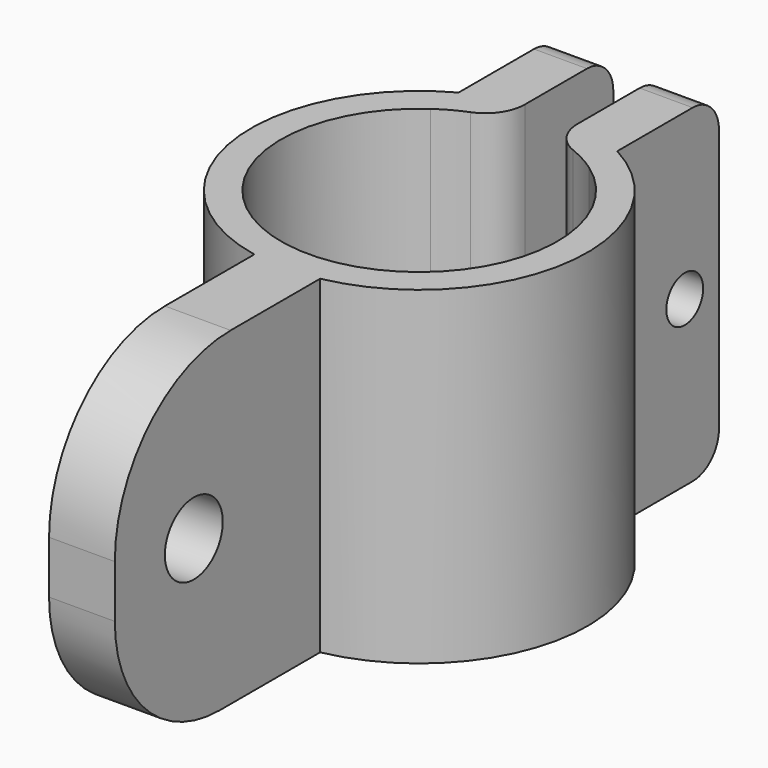
from build123d import *

# Parameters (mm, degrees)
F1_DEPTH = 25
F2_R     = 2.75
F2_R_2   = 1.75
F3_DEPTH = 50
F4_R     = 11
F5_R     = 10
F6_R     = 2.5
F7_R     = 3


with BuildPart() as f1:
    # F0 (on Top) → F1 (new body)
    with BuildSketch(Plane.XY):
        with BuildLine():
            ThreePointArc((2.5, -12.539936204), (0, -12.7867118525), (-2.5, -12.539936204))
            Line((-2.5, -12.539936204), (-2.5, -32.0420756284))
            Line((-2.5, -32.0420756284), (0, -32.0420756284))
            Line((0, -32.0420756284), (2.5, -32.0420756284))
            Line((2.5, -32.0420756284), (2.5, -12.539936204))
        make_face()
        with BuildLine():
            ThreePointArc((-6.0296314677, 11.2757946223), (-4.0714568053, 12.1211896892), (-2, 12.6293309403))
            Line((-2, 12.6293309403), (-2, 20.9377203137))
            Line((-2, 20.9377203137), (-6.0296314677, 20.9377203137))
            Line((-6.0296314677, 20.9377203137), (-6.0296314677, 11.2757946223))
        make_face()
        with BuildLine():
            ThreePointArc((-6.0296314677, 8.5961354319), (-4.1050168721, 9.6643073461), (-2, 10.307764064))
            Line((-2, 10.307764064), (-2, 12.6293309403))
            ThreePointArc((-2, 12.6293309403), (-4.0714568053, 12.1211896892), (-6.0296314677, 11.2757946223))
            Line((-6.0296314677, 11.2757946223), (-6.0296314677, 8.5961354319))
        make_face()
        with BuildLine():
            ThreePointArc((2, 10.307764064), (4.1050168721, 9.6643073461), (6.0296314677, 8.5961354319))
            Line((6.0296314677, 8.5961354319), (6.0296314677, 11.2757946223))
            ThreePointArc((6.0296314677, 11.2757946223), (4.0714568053, 12.1211896892), (2, 12.6293309403))
            Line((2, 12.6293309403), (2, 10.307764064))
        make_face()
        with BuildLine():
            ThreePointArc((2, 12.6293309403), (4.0714568053, 12.1211896892), (6.0296314677, 11.2757946223))
            Line((6.0296314677, 11.2757946223), (6.0296314677, 20.9377203137))
            Line((6.0296314677, 20.9377203137), (2, 20.9377203137))
            Line((2, 20.9377203137), (2, 13.3510299228))
            Line((2, 13.3510299228), (2, 12.6293309403))
        make_face()
        with BuildLine():
            ThreePointArc((6.0296314677, 8.5961354319), (0, -10.5), (-6.0296314677, 8.5961354319))
            Line((-6.0296314677, 8.5961354319), (-6.0296314677, 11.2757946223))
            ThreePointArc((-6.0296314677, 11.2757946223), (-12.648553749, -1.8745901043), (-2.5, -12.539936204))
            ThreePointArc((-2.5, -12.539936204), (0, -12.7867118525), (2.5, -12.539936204))
            ThreePointArc((2.5, -12.539936204), (12.648553749, -1.8745901043), (6.0296314677, 11.2757946223))
            Line((6.0296314677, 11.2757946223), (6.0296314677, 8.5961354319))
        make_face()
    extrude(amount=F1_DEPTH)

    # F2 (on face) → F3 (cut)
    with BuildSketch(Plane(origin=(-6.0296314677, 0, 0), x_dir=(0, -1, 0), z_dir=(-1, 0, 0))):
        with Locations((24.539936204, 12.5)):
            Circle(F2_R)
        with Locations((-17.6877203137, 12.5)):
            Circle(F2_R_2)
    extrude(amount=-F3_DEPTH, mode=Mode.SUBTRACT)

    # F4
    f4_edges = [f1.edges().sort_by_distance(p)[0] for p in [
        (0, -32.042076, 25),
    ]]
    fillet(f4_edges, radius=F4_R)

    # F5
    f5_edges = [f1.edges().sort_by_distance(p)[0] for p in [
        (0, -32.042076, 0),
    ]]
    fillet(f5_edges, radius=F5_R)

    # F6
    f6_edges = [f1.edges().sort_by_distance(p)[0] for p in [
        (-4.014816, 20.93772, 25),
        (4.014816, 20.93772, 25),
        (4.014816, 20.93772, 0),
        (-4.014816, 20.93772, 0),
    ]]
    fillet(f6_edges, radius=F6_R)

    # F7
    f7_edges = [f1.edges().sort_by_distance(p)[0] for p in [
        (-2, 10.307764, 12.5),
        (2, 10.307764, 12.5),
    ]]
    fillet(f7_edges, radius=F7_R)


solid = f1.part
